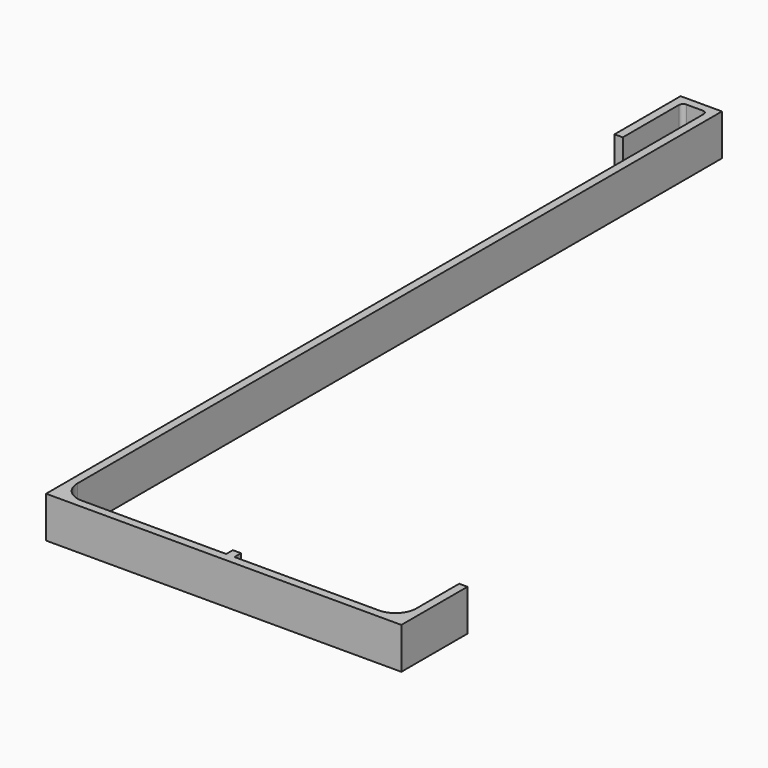
from build123d import *

# Parameters (mm, degrees)
F1_DEPTH = 10
F2_R     = 5
F3_R     = 1


with BuildPart() as f1:
    # F0 (on Top) → F1 (new body)
    with BuildSketch(Plane.XY):
        Polygon((-8, 182), (-6, 182), (-6, 200), (0, 200), (0, 0), (86, 0), (86, 20), (84, 20), (84, 2), (44, 2), (44, 4), (42, 4), (42, 2), (2, 2), (2, 202), (-8, 202), align=None)
    extrude(amount=F1_DEPTH)

    # F2
    f2_edges = [f1.edges().sort_by_distance(p)[0] for p in [
        (2, 2, 5),
        (84, 2, 5),
    ]]
    fillet(f2_edges, radius=F2_R)

    # F3
    f3_edges = [f1.edges().sort_by_distance(p)[0] for p in [
        (-6, 200, 5),
        (0, 200, 5),
    ]]
    fillet(f3_edges, radius=F3_R)


solid = f1.part
